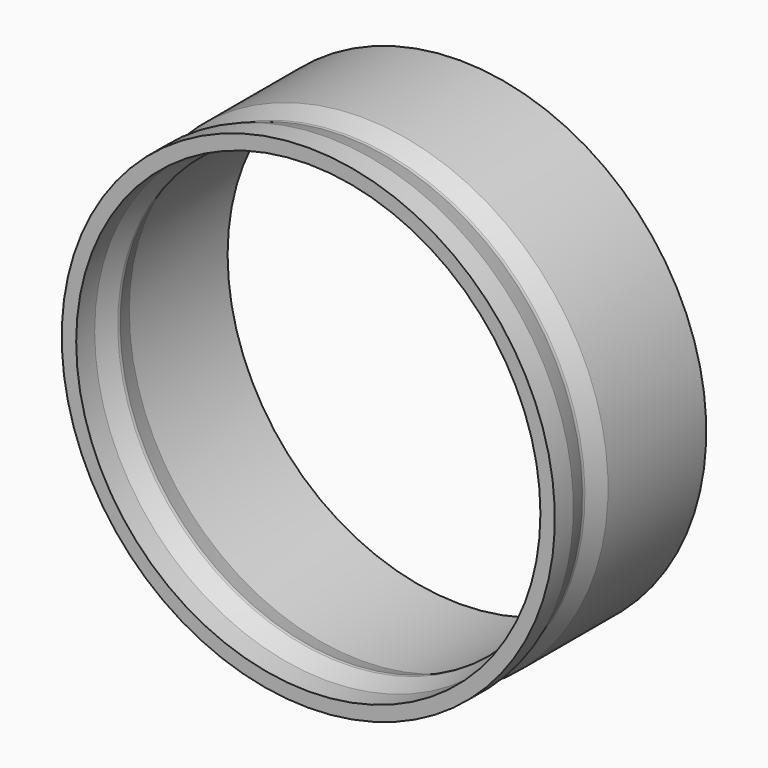
from build123d import *


with BuildPart() as f1:
    # F0 (on Right) → F1 (revolve)
    with BuildSketch(Plane.YZ):
        with BuildLine():
            Line((0, 51.2), (0, 48.2))
            Line((0, 48.2), (4.8, 48.2))
            Line((4.8, 48.2), (8.972783, 46.755051))
            ThreePointArc((8.972783, 46.755051), (9.3, 46.7), (9.627217, 46.755051))
            Line((9.627217, 46.755051), (13.8, 48.2))
            Line((13.8, 48.2), (39.3, 48.2))
            Line((39.3, 48.2), (39.3, 51.2))
            Line((39.3, 51.2), (13.8, 51.2))
            Line((13.8, 51.2), (9.627217, 49.755051))
            ThreePointArc((9.627217, 49.755051), (9.3, 49.7), (8.972783, 49.755051))
            Line((8.972783, 49.755051), (4.8, 51.2))
            Line((4.8, 51.2), (0, 51.2))
        make_face()
    revolve(axis=Axis((0, 19.65, 0), (0, 1, 0)))


solid = f1.part
